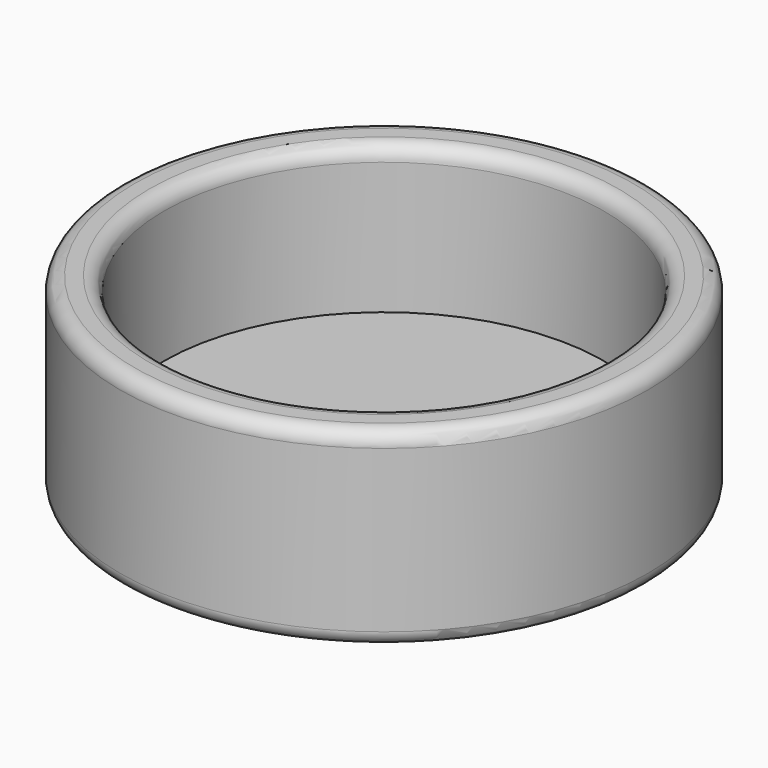
from build123d import *

# Parameters (mm, degrees)
F0_R     = 18
F0_R_2   = 15
F1_DEPTH = 10
F2_R     = 18
F3_DEPTH = 3
F4_R     = 1


with BuildPart() as f1:
    # F0 (on Top) → F1 (new body)
    with BuildSketch(Plane.XY):
        Circle(F0_R)
        Circle(F0_R_2, mode=Mode.SUBTRACT)
    extrude(amount=F1_DEPTH)

    # F2 (on face) → F3 (join)
    with BuildSketch(Plane.XY):
        Circle(F2_R)
    extrude(amount=-F3_DEPTH)

    # F4
    f4_edges = [f1.edges().sort_by_distance(p)[0] for p in [
        (-18, 0, 10),
        (-15, 0, 10),
        (-18, 0, -3),
    ]]
    fillet(f4_edges, radius=F4_R)


solid = f1.part
